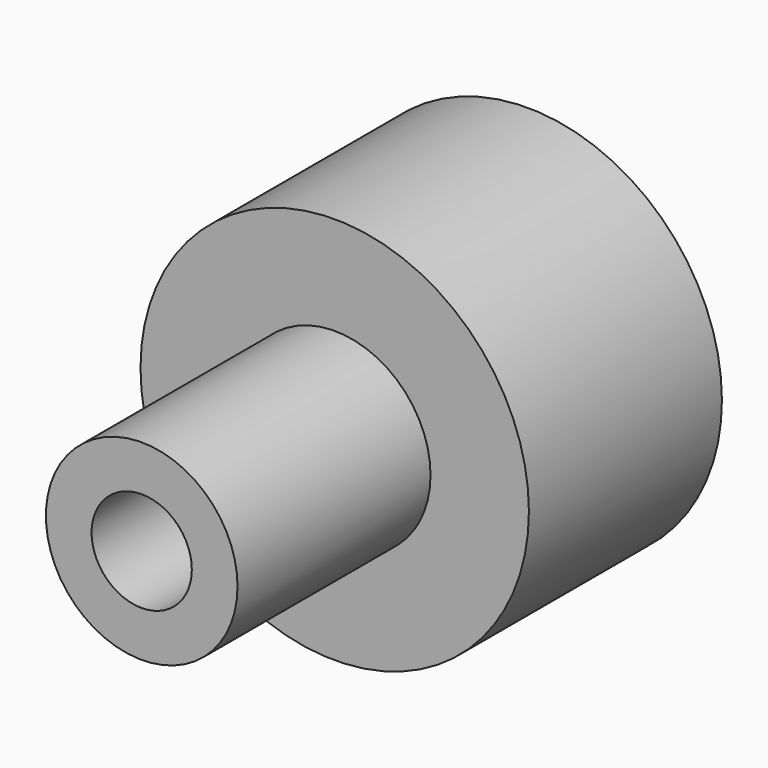
from build123d import *

# Parameters (mm, degrees)
F0_R     = 20.44695
F0_R_2   = 10.086929
F0_R_3   = 5.276256
F1_DEPTH = 25.4
F2_DEPTH = 50.8


with BuildPart() as f1:
    # F0 (on Front) → F1 (new body)
    with BuildSketch(Plane.XZ):
        Circle(F0_R)
        Circle(F0_R_2, mode=Mode.SUBTRACT)
        Circle(F0_R_2)
        Circle(F0_R_3, mode=Mode.SUBTRACT)
        Circle(F0_R_3)
    extrude(amount=F1_DEPTH)

    # F0 (on Front) → F2 (join)
    with BuildSketch(Plane.XZ):
        Circle(F0_R_2)
        Circle(F0_R_3, mode=Mode.SUBTRACT)
    extrude(amount=F2_DEPTH)


solid = f1.part
